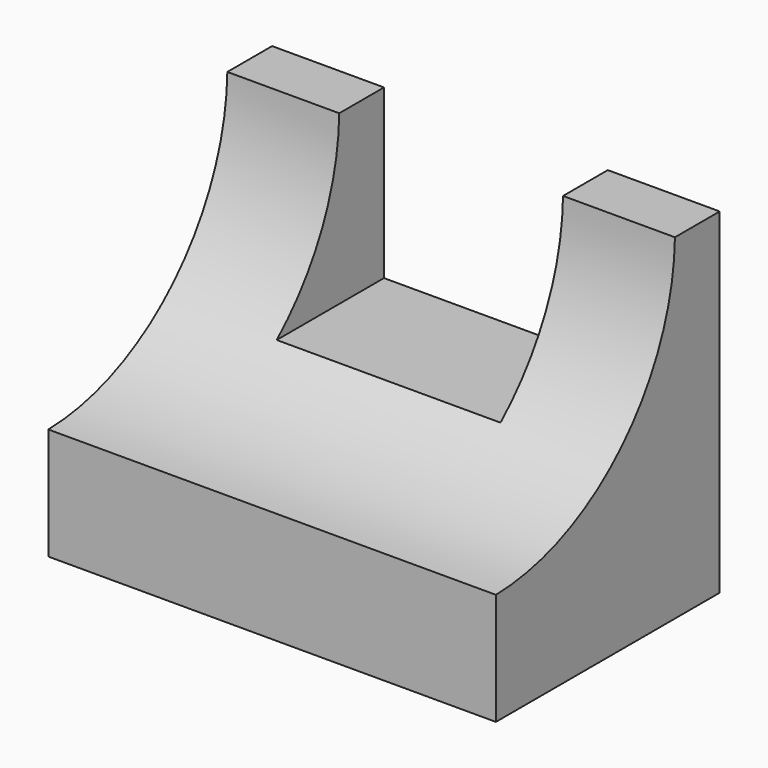
from build123d import *

# Parameters (mm, degrees)
F0_W     = 50.8
F0_H     = 38.1
F1_DEPTH = 31.75
F3_DEPTH = 50.801
F4_W     = 25.4
F4_H     = 19.05
F5_DEPTH = 25.4


with BuildPart() as f1:
    # F0 (on Front) → F1 (new body)
    with BuildSketch(Plane.XZ):
        with Locations((-25.4, 19.05)):
            Rectangle(F0_W, F0_H)
        with Locations((-25.4, 19.05)):
            Rectangle(F0_W, F0_H)
    extrude(amount=F1_DEPTH)

    # F2 (on face) → F3 (cut, through all)
    with BuildSketch(Plane.YZ):
        with BuildLine():
            Line((-31.75, 38.1), (-31.75, 12.7))
            ThreePointArc((-31.75, 12.7), (-13.916344, 20.266344), (-6.35, 38.1))
            Line((-6.35, 38.1), (-31.75, 38.1))
        make_face()
    extrude(amount=-F3_DEPTH, mode=Mode.SUBTRACT)

    # F4 (on face) → F5 (cut)
    with BuildSketch(Plane(origin=(0, 0, 0), x_dir=(-1, 0, 0), z_dir=(0, 1, 0))):
        with Locations((25.4, 28.575)):
            Rectangle(F4_W, F4_H)
    extrude(amount=-F5_DEPTH, mode=Mode.SUBTRACT)


solid = f1.part
